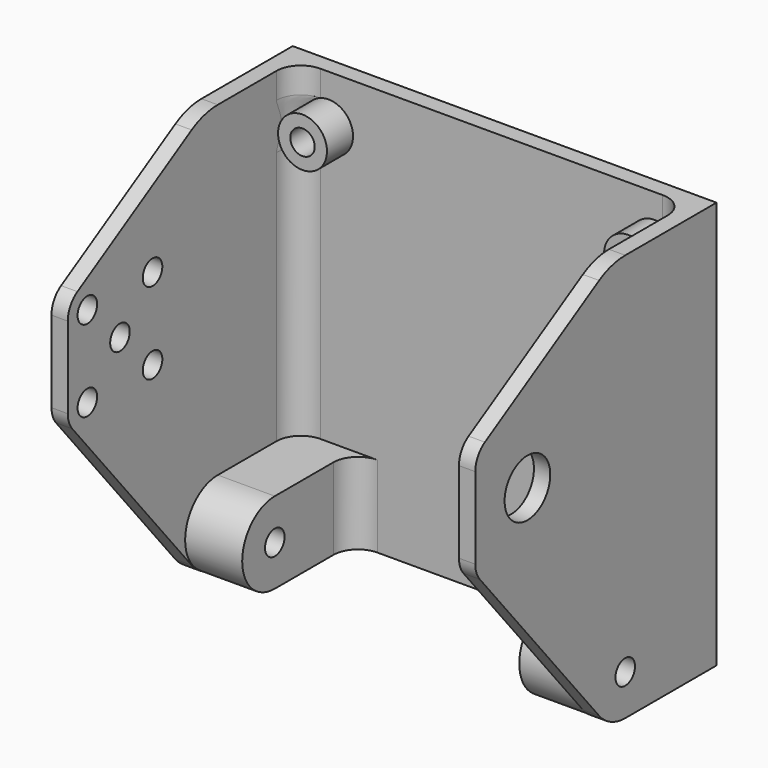
from build123d import *

# Parameters (mm, degrees)
SKETCH_W      = 48
SKETCH_H      = 50
SKETCH_R      = 1.5
PAD_DEPTH     = 2
SKETCH001_R   = 1.5
PAD001_DEPTH  = 2
SKETCH002_R   = 3.5
SKETCH002_R_2 = 1.5
PAD002_DEPTH  = 2
SKETCH003_R   = 3
SKETCH003_R_2 = 1.5
PAD003_DEPTH  = 4
SKETCH004_R   = 1.5
PAD004_DEPTH  = 7
SKETCH005_R   = 1.5
PAD005_DEPTH  = 7
SKETCH006_R   = 1.5
POCKET_DEPTH  = 5
FILLET_R      = 3
FILLET001_R   = 3
FILLET002_R   = 3
FILLET003_R   = 3


with BuildPart() as part:
    # Sketch → Pad (new body)
    with BuildSketch(Plane.XZ):
        with Locations((24, 25)):
            Rectangle(SKETCH_W, SKETCH_H)
        with Locations((4, 44)):
            Circle(SKETCH_R, mode=Mode.SUBTRACT)
        with Locations((44, 44)):
            Circle(SKETCH_R, mode=Mode.SUBTRACT)
        with Locations((4, 6)):
            Circle(SKETCH_R, mode=Mode.SUBTRACT)
        with Locations((44, 6)):
            Circle(SKETCH_R, mode=Mode.SUBTRACT)
    extrude(amount=PAD_DEPTH)

    # Sketch001 (on Face4 of Pad) → Pad001 (join)
    with BuildSketch(Plane(origin=(0, 0, 0), x_dir=(0, 0, -1), z_dir=(-1, 0, 0))):
        with BuildLine():
            Line((-50, 0), (0, 0))
            Line((0, 14), (0, 0))
            ThreePointArc((0, 14), (-0.494828, 16.210929), (-1.884896, 18))
            Line((-1.884896, 18), (-24.070988, 36.313604))
            ThreePointArc((-24.070988, 36.313604), (-24.966073, 36.823191), (-25.980762, 37))
            Line((-25.980762, 37), (-35.980762, 37))
            ThreePointArc((-35.980762, 37), (-37.468289, 36.605238), (-38.564336, 35.524843))
            Line((-38.564336, 35.524843), (-48.907622, 18))
            ThreePointArc((-48.907622, 18), (-49.721995, 16.07324), (-50, 14))
            Line((-50, 14), (-50, 0))
        make_face()
        with Locations((-5, 14)):
            Circle(SKETCH001_R, mode=Mode.SUBTRACT)
        with Locations((-30.980762, 29)):
            Circle(SKETCH001_R, mode=Mode.SUBTRACT)
        with Locations((-25.980762, 24)):
            Circle(SKETCH001_R, mode=Mode.SUBTRACT)
        with Locations((-25.980762, 34)):
            Circle(SKETCH001_R, mode=Mode.SUBTRACT)
        with Locations((-35.980762, 34)):
            Circle(SKETCH001_R, mode=Mode.SUBTRACT)
        with Locations((-35.980762, 24)):
            Circle(SKETCH001_R, mode=Mode.SUBTRACT)
    extrude(amount=PAD001_DEPTH)

    # Sketch002 (on Face3 of Pad001) → Pad002 (join)
    with BuildSketch(Plane(origin=(48, 0, 0), x_dir=(0, 0, 1), z_dir=(1, 0, 0))):
        with BuildLine():
            Line((24.070988, 36.313604), (1.884896, 18))
            ThreePointArc((1.884896, 18), (0.494828, 16.210929), (0, 14))
            Line((0, 14), (0, 0))
            Line((50, 0), (0, 0))
            Line((50, 14), (50, 0))
            ThreePointArc((50, 14), (49.721995, 16.07324), (48.907622, 18))
            Line((38.564336, 35.524843), (48.907622, 18))
            ThreePointArc((38.564336, 35.524843), (37.468289, 36.605238), (35.980762, 37))
            Line((25.980762, 37), (35.980762, 37))
            ThreePointArc((25.980762, 37), (24.966073, 36.823191), (24.070988, 36.313604))
        make_face()
        with Locations((30.980762, 29)):
            Circle(SKETCH002_R, mode=Mode.SUBTRACT)
        with Locations((5, 14)):
            Circle(SKETCH002_R_2, mode=Mode.SUBTRACT)
    extrude(amount=PAD002_DEPTH)

    # Sketch003 (on Face5 of Pad002) → Pad003 (join)
    with BuildSketch(Plane.XZ.offset(2)):
        with Locations((4, 44)):
            Circle(SKETCH003_R)
        with Locations((4, 44)):
            Circle(SKETCH003_R_2, mode=Mode.SUBTRACT)
        with Locations((44, 44)):
            Circle(SKETCH003_R)
        with Locations((44, 44)):
            Circle(SKETCH003_R_2, mode=Mode.SUBTRACT)
    extrude(amount=PAD003_DEPTH)

    # Sketch004 (on Face8 of Pad003) → Pad004 (join)
    with BuildSketch(Plane(origin=(0, 0, 0), x_dir=(0, 0, 1), z_dir=(1, 0, 0))):
        with BuildLine():
            Line((0, 2), (0, 14))
            ThreePointArc((10, 14), (5, 19), (0, 14))
            Line((10, 14), (10, 2))
            Line((10, 2), (0, 2))
        make_face()
        with Locations((5, 14)):
            Circle(SKETCH004_R, mode=Mode.SUBTRACT)
    extrude(amount=PAD004_DEPTH)

    # Sketch005 (on Face12 of Pad004) → Pad005 (join)
    with BuildSketch(Plane(origin=(48, 0, 0), x_dir=(0, 0, -1), z_dir=(-1, 0, 0))):
        with BuildLine():
            Line((-10, 14), (-10, 2))
            Line((-10, 2), (0, 2))
            Line((0, 2), (0, 14))
            ThreePointArc((0, 14), (-5, 19), (-10, 14))
        make_face()
        with Locations((-5, 14)):
            Circle(SKETCH005_R, mode=Mode.SUBTRACT)
    extrude(amount=PAD005_DEPTH)

    # Sketch006 (on Face6 of Pad005) → Pocket (cut)
    with BuildSketch(Plane.XZ.offset(2)):
        with Locations((4, 6)):
            Circle(SKETCH006_R)
        with Locations((44, 6)):
            Circle(SKETCH006_R)
    extrude(amount=POCKET_DEPTH, mode=Mode.SUBTRACT)

    # Fillet
    fillet_edges = [part.edges().sort_by_distance(p)[0] for p in [
        (48, -2, 30),
    ]]
    fillet(fillet_edges, radius=FILLET_R)

    # Fillet001
    fillet001_edges = [part.edges().sort_by_distance(p)[0] for p in [
        (0, -2, 30),
    ]]
    fillet(fillet001_edges, radius=FILLET001_R)

    # Fillet002
    fillet002_edges = [part.edges().sort_by_distance(p)[0] for p in [
        (7, -2, 5),
    ]]
    fillet(fillet002_edges, radius=FILLET002_R)

    # Fillet003
    fillet003_edges = [part.edges().sort_by_distance(p)[0] for p in [
        (41, -2, 5),
    ]]
    fillet(fillet003_edges, radius=FILLET003_R)


solid = part.part
